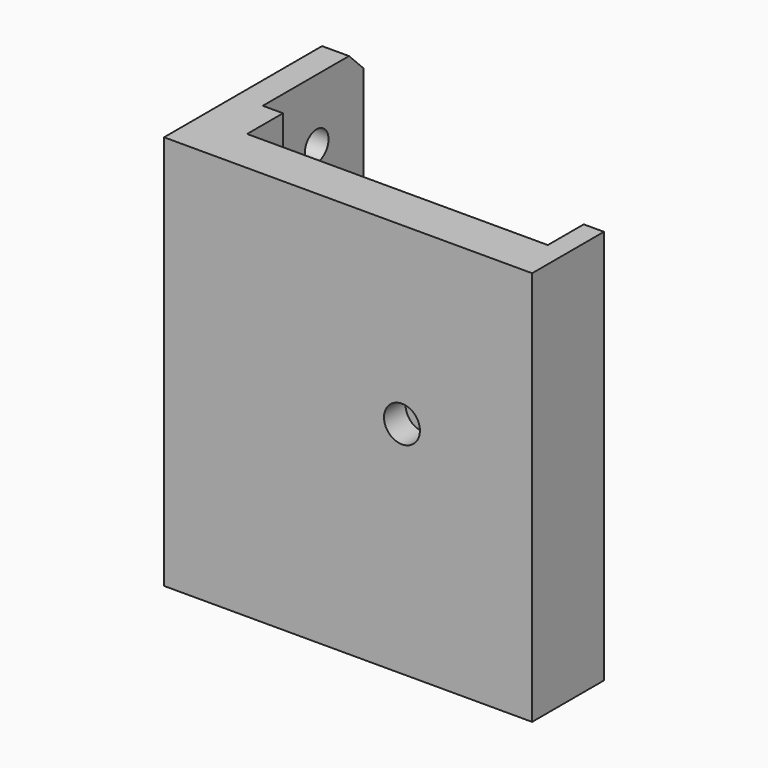
from build123d import *

# Parameters (mm, degrees)
CYLINDER004_R          = 1.65
CYLINDER004_DEPTH      = 10
CYLINDER003_R          = 1.65
CYLINDER003_DEPTH      = 10
BOX007_W               = 3
BOX007_H               = 24
BOX007_DEPTH           = 44
CHAMFER003_SIZE        = 14
CHAMFER004_SIZE        = 2
CYLINDER_R             = 2
CYLINDER_DEPTH         = 3
CYLINDER002_R          = 0.85
CYLINDER002_DEPTH      = 5
BOX003_W               = 14
BOX003_H               = 10
BOX003_DEPTH           = 10
BOX005_W               = 13
BOX005_H               = 10
BOX005_DEPTH           = 10
BOX002_W               = 33.5
BOX002_H               = 34
BOX002_DEPTH           = 10
BOX_W                  = 33.5
BOX_H                  = 42
BOX_DEPTH              = 10
BOX001_W               = 38
BOX001_H               = 44
BOX001_DEPTH           = 10
CHAMFER_SIZE           = 2.99
BOX004_W               = 13
BOX004_H               = 3
BOX004_DEPTH           = 1
BOX006_W               = 3
BOX006_H               = 3
BOX006_DEPTH           = 1
CYLINDER001_R          = 4.5
CYLINDER001_DEPTH      = 5
CUT005_PLACEMENT_ANGLE = 90
BOX008_W               = 4
BOX008_H               = 3
BOX008_DEPTH           = 8
CHAMFER002_SIZE        = 3
BOX009_W               = 4
BOX009_H               = 3
BOX009_DEPTH           = 8
CHAMFER001_SIZE        = 3


with BuildPart() as cylinder004:
    # Cylinder004 → Cylinder004 (new body)
    with BuildSketch(Plane(origin=(0, 12.5, 37), x_dir=(0, 0, 1), z_dir=(-1, 0, 0))):
        Circle(CYLINDER004_R)
    extrude(amount=CYLINDER004_DEPTH)


with BuildPart() as fusion003:
    # Cylinder003 → Cylinder003 (new body)
    with BuildSketch(Plane(origin=(0, 12.5, 17), x_dir=(0, 0, 1), z_dir=(-1, 0, 0))):
        Circle(CYLINDER003_R)
    extrude(amount=CYLINDER003_DEPTH)

    # Fusion003: union Cylinder004
    add(cylinder004.part)


with BuildPart() as fusion003_1:
    # Fusion003 placement: moved
    add(fusion003.part.moved(Location((5, -5, 0))))


with BuildPart() as cut006:
    # Box007 → Box007 (new body)
    with BuildSketch(Plane(origin=(-1, -10, 0), x_dir=(1, 0, 0), z_dir=(0, 0, 1))):
        with Locations((1.5, 12)):
            Rectangle(BOX007_W, BOX007_H)
    extrude(amount=BOX007_DEPTH)

    # Chamfer003
    chamfer003_edges = [cut006.edges().sort_by_distance(p)[0] for p in [
        (0.5, 14, 0),
    ]]
    chamfer(chamfer003_edges, length=CHAMFER003_SIZE)

    # Chamfer004
    chamfer004_edges = [cut006.edges().sort_by_distance(p)[0] for p in [
        (0.5, 14, 44),
    ]]
    chamfer(chamfer004_edges, length=CHAMFER004_SIZE)

    # Cut006: cut Fusion003
    add(fusion003_1.part, mode=Mode.SUBTRACT)


with BuildPart() as cylinder:
    # Cylinder → Cylinder (new body)
    with BuildSketch(Plane(origin=(4.5, 19.5, 0), x_dir=(1, 0, 0), z_dir=(0, 0, 1))):
        Circle(CYLINDER_R)
    extrude(amount=CYLINDER_DEPTH)


with BuildPart() as cylinder002:
    # Cylinder002 → Cylinder002 (new body)
    with BuildSketch(Plane(origin=(4.5, 19.5, 0), x_dir=(1, 0, 0), z_dir=(0, 0, 1))):
        Circle(CYLINDER002_R)
    extrude(amount=CYLINDER002_DEPTH)


with BuildPart() as cube003:
    # Box003 → Box003 (new body)
    with BuildSketch(Plane(origin=(0.5, 37, 6.5), x_dir=(1, 0, 0), z_dir=(0, 0, 1))):
        with Locations((7, 5)):
            Rectangle(BOX003_W, BOX003_H)
    extrude(amount=BOX003_DEPTH)


with BuildPart() as cube005:
    # Box005 → Box005 (new body)
    with BuildSketch(Plane(origin=(-12.5, 40, 7.75), x_dir=(1, 0, 0), z_dir=(0, 0, 1))):
        with Locations((6.5, 5)):
            Rectangle(BOX005_W, BOX005_H)
    extrude(amount=BOX005_DEPTH)


with BuildPart() as cube002:
    # Box002 → Box002 (new body)
    with BuildSketch(Plane(origin=(-16.75, 5, 2), x_dir=(1, 0, 0), z_dir=(0, 0, 1))):
        with Locations((16.75, 17)):
            Rectangle(BOX002_W, BOX002_H)
    extrude(amount=BOX002_DEPTH)


with BuildPart() as cube:
    # Box → Box (new body)
    with BuildSketch(Plane(origin=(-16.75, 0, 5), x_dir=(1, 0, 0), z_dir=(0, 0, 1))):
        with Locations((16.75, 21)):
            Rectangle(BOX_W, BOX_H)
    extrude(amount=BOX_DEPTH)


with BuildPart() as chamfer_body:
    # Box001 → Box001 (new body)
    with BuildSketch(Plane(origin=(-19, 0, 0), x_dir=(1, 0, 0), z_dir=(0, 0, 1))):
        with Locations((19, 22)):
            Rectangle(BOX001_W, BOX001_H)
    extrude(amount=BOX001_DEPTH)

    # Cut: cut Cube
    add(cube.part, mode=Mode.SUBTRACT)

    # Cut001: cut Cube002
    add(cube002.part, mode=Mode.SUBTRACT)

    # Cut002: cut Cube005
    add(cube005.part, mode=Mode.SUBTRACT)

    # Cut003: cut Cube003
    add(cube003.part, mode=Mode.SUBTRACT)

    # Chamfer
    chamfer_edges = [chamfer_body.edges().sort_by_distance(p)[0] for p in [
        (0, 5, 5),
    ]]
    chamfer(chamfer_edges, length=CHAMFER_SIZE)


with BuildPart() as cube004:
    # Box004 → Box004 (new body)
    with BuildSketch(Plane(origin=(-12.5, 41, 6.75), x_dir=(1, 0, 0), z_dir=(0, 0, 1))):
        with Locations((6.5, 1.5)):
            Rectangle(BOX004_W, BOX004_H)
    extrude(amount=BOX004_DEPTH)


with BuildPart() as cube006:
    # Box006 → Box006 (new body)
    with BuildSketch(Plane(origin=(14.5, 41, 6.75), x_dir=(1, 0, 0), z_dir=(0, 0, 1))):
        with Locations((1.5, 1.5)):
            Rectangle(BOX006_W, BOX006_H)
    extrude(amount=BOX006_DEPTH)


with BuildPart() as cut005:
    # Cylinder001 → Cylinder001 (new body)
    with BuildSketch(Plane(origin=(4.5, 19.5, 0), x_dir=(1, 0, 0), z_dir=(0, 0, 1))):
        Circle(CYLINDER001_R)
    extrude(amount=CYLINDER001_DEPTH)

    # Fusion: union Chamfer body, Cube004, Cube006
    add(chamfer_body.part)
    add(cube004.part)
    add(cube006.part)

    # Cut004: cut Cylinder002
    add(cylinder002.part, mode=Mode.SUBTRACT)

    # Cut005: cut Cylinder
    add(cylinder.part, mode=Mode.SUBTRACT)


with BuildPart() as cut005_1:
    # Cut005 placement: moved
    add(cut005.part.moved(Location((21, -10, 44))).rotate(Axis((21, -10, 44), (-1, 0, 0)), CUT005_PLACEMENT_ANGLE))


with BuildPart() as chamfer002:
    # Box008 → Box008 (new body)
    with BuildSketch(Plane(origin=(-6, -2, -7), x_dir=(1, 0, 0), z_dir=(0, 0, 1))):
        with Locations((2, 1.5)):
            Rectangle(BOX008_W, BOX008_H)
    extrude(amount=BOX008_DEPTH)

    # Chamfer002
    chamfer002_edges = [chamfer002.edges().sort_by_distance(p)[0] for p in [
        (-6, -0.5, 1),
        (-6, -0.5, -7),
    ]]
    chamfer(chamfer002_edges, length=CHAMFER002_SIZE)


with BuildPart() as chamfer002_1:
    # Chamfer002 placement: moved
    add(chamfer002.part.moved(Location((2, 4, 7))))


with BuildPart() as fusion004:
    # Box009 → Box009 (new body)
    with BuildSketch(Plane(origin=(-6, -2, 44), x_dir=(1, 0, 0), z_dir=(0, 0, 1))):
        with Locations((2, 1.5)):
            Rectangle(BOX009_W, BOX009_H)
    extrude(amount=BOX009_DEPTH)

    # Chamfer001
    chamfer001_edges = [fusion004.edges().sort_by_distance(p)[0] for p in [
        (-6, -0.5, 52),
        (-6, -0.5, 44),
    ]]
    chamfer(chamfer001_edges, length=CHAMFER001_SIZE)


with BuildPart() as fusion004_1:
    # Chamfer001 placement: moved
    add(fusion004.part.moved(Location((2, 4, -8))))

    # Fusion002: union Chamfer002
    add(chamfer002_1.part)


with BuildPart() as fusion004_2:
    # Fusion002 placement: moved
    add(fusion004_1.part.moved(Location((0, -5, 0))))

    # Fusion004: union Cut006, Cut005
    add(cut006.part)
    add(cut005_1.part)


solid = fusion004_2.part
